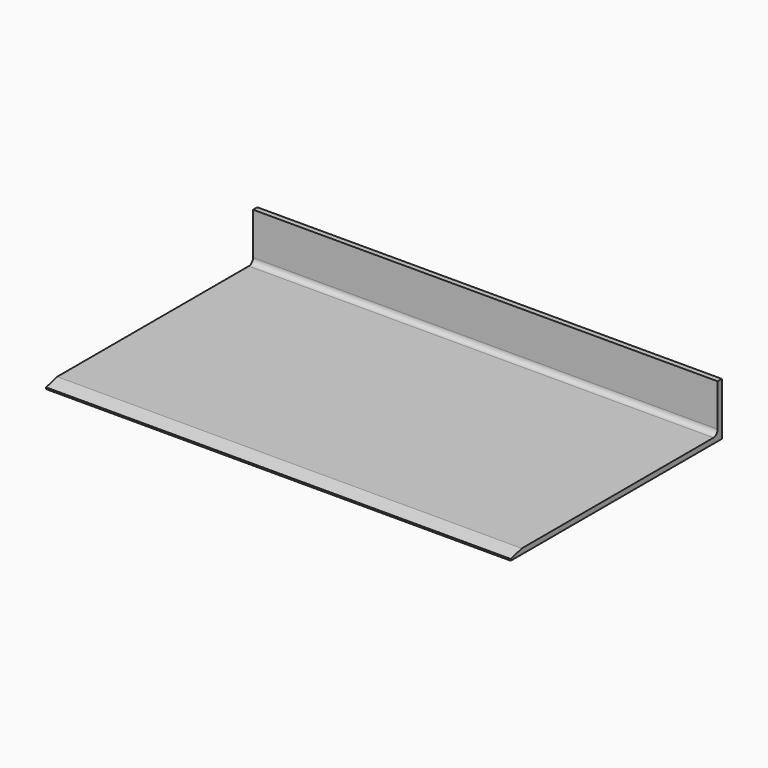
from build123d import *

# Parameters (mm, degrees)
F1_DEPTH = 88


with BuildPart() as f1:
    # F0 (on Right) → F1 (new body)
    with BuildSketch(Plane.YZ):
        with BuildLine():
            Line((-50, 0.3), (-50, 0))
            Line((-50, 0), (0, 0))
            Line((0, 0), (0, 10))
            Line((0, 10), (-1, 10))
            Line((-1, 10), (-1, 2))
            ThreePointArc((-1, 2), (-1.292893, 1.292893), (-2, 1))
            Line((-2, 1), (-47.387564, 1))
            Line((-47.387564, 1), (-50, 0.3))
        make_face()
    extrude(amount=F1_DEPTH)


solid = f1.part
